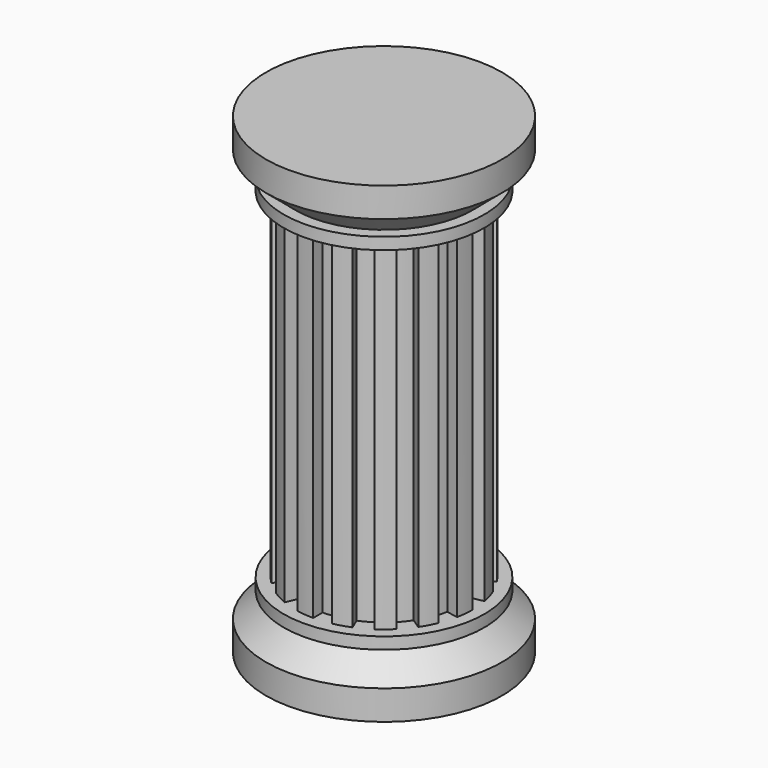
from build123d import *

# Parameters (mm, degrees)
F3_DEPTH = 36.581717


with BuildPart() as f1:
    # F0 (on Right) → F1 (revolve)
    with BuildSketch(Plane.YZ):
        Polygon((-12.7, 0), (0, 0), (0, 50.8), (-12.7, 50.8), (-12.7, 47.625), (-9.525, 44.960859), (-10.795, 44.960859), (-10.795, 43.690859), (-9.525, 43.690859), (-9.525, 7.109141), (-10.795, 7.109141), (-10.795, 5.839141), (-9.525, 5.839141), (-12.7, 3.175), align=None)
    revolve(axis=Axis((0, 0, 25.4), (0, 0, -1)))

    # F2 (on face) → F3 (cut, through all)
    with BuildSketch(Plane.XY.offset(7.109141)):
        with BuildLine():
            Line((3.159052, -7.626626), (3.64506, -8.799953))
            ThreePointArc((3.64506, -8.799953), (4.490054, -8.4003), (5.291806, -7.919748))
            Line((5.291806, -7.919748), (4.586232, -6.863782))
            ThreePointArc((4.586232, -6.863782), (3.89138, -7.28026), (3.159052, -7.626626))
        make_face()
        with BuildLine():
            Line((0, -8.255), (0, -9.525))
            ThreePointArc((0, -9.525), (0.933613, -9.479135), (1.858235, -9.34198))
            Line((1.858235, -9.34198), (1.610471, -8.096382))
            ThreePointArc((1.610471, -8.096382), (0.809131, -8.21525), (0, -8.255))
        make_face()
        with BuildLine():
            ThreePointArc((6.863782, -4.586232), (6.381201, -5.236917), (5.837166, -5.837166))
            Line((5.837166, -5.837166), (6.735192, -6.735192))
            ThreePointArc((6.735192, -6.735192), (7.362925, -6.042596), (7.919748, -5.291806))
            Line((7.919748, -5.291806), (6.863782, -4.586232))
        make_face()
        with BuildLine():
            ThreePointArc((8.096382, -1.610471), (7.899542, -2.3963), (7.626626, -3.159052))
            Line((7.626626, -3.159052), (8.799953, -3.64506))
            ThreePointArc((8.799953, -3.64506), (9.114857, -2.764962), (9.34198, -1.858235))
            Line((9.34198, -1.858235), (8.096382, -1.610471))
        make_face()
        with BuildLine():
            Line((-7.626626, -3.159052), (-8.799953, -3.64506))
            ThreePointArc((-8.799953, -3.64506), (-8.4003, -4.490054), (-7.919748, -5.291806))
            Line((-7.919748, -5.291806), (-6.863782, -4.586232))
            ThreePointArc((-6.863782, -4.586232), (-7.28026, -3.89138), (-7.626626, -3.159052))
        make_face()
        with BuildLine():
            Line((-8.255, 0), (-9.525, 0))
            ThreePointArc((-9.525, 0), (-9.479135, -0.933613), (-9.34198, -1.858235))
            Line((-9.34198, -1.858235), (-8.096382, -1.610471))
            ThreePointArc((-8.096382, -1.610471), (-8.21525, -0.809131), (-8.255, 0))
        make_face()
        with BuildLine():
            Line((-5.291806, -7.919748), (-4.586232, -6.863782))
            ThreePointArc((-4.586232, -6.863782), (-5.236917, -6.381201), (-5.837166, -5.837166))
            Line((-5.837166, -5.837166), (-6.735192, -6.735192))
            ThreePointArc((-6.735192, -6.735192), (-6.042596, -7.362925), (-5.291806, -7.919748))
        make_face()
        with BuildLine():
            Line((-3.159052, -7.626626), (-3.64506, -8.799953))
            ThreePointArc((-3.64506, -8.799953), (-2.764962, -9.114857), (-1.858235, -9.34198))
            Line((-1.858235, -9.34198), (-1.610471, -8.096382))
            ThreePointArc((-1.610471, -8.096382), (-2.3963, -7.899542), (-3.159052, -7.626626))
        make_face()
        with BuildLine():
            Line((-3.159052, 7.626626), (-3.64506, 8.799953))
            ThreePointArc((-3.64506, 8.799953), (-4.490054, 8.4003), (-5.291806, 7.919748))
            Line((-5.291806, 7.919748), (-4.586232, 6.863782))
            ThreePointArc((-4.586232, 6.863782), (-3.89138, 7.28026), (-3.159052, 7.626626))
        make_face()
        with BuildLine():
            Line((0, 8.255), (0, 9.525))
            ThreePointArc((0, 9.525), (-0.933613, 9.479135), (-1.858235, 9.34198))
            Line((-1.858235, 9.34198), (-1.610471, 8.096382))
            ThreePointArc((-1.610471, 8.096382), (-0.809131, 8.21525), (0, 8.255))
        make_face()
        with BuildLine():
            Line((-7.919748, 5.291806), (-6.863782, 4.586232))
            ThreePointArc((-6.863782, 4.586232), (-6.381201, 5.236917), (-5.837166, 5.837166))
            Line((-5.837166, 5.837166), (-6.735192, 6.735192))
            ThreePointArc((-6.735192, 6.735192), (-7.362925, 6.042596), (-7.919748, 5.291806))
        make_face()
        with BuildLine():
            Line((-7.626626, 3.159052), (-8.799953, 3.64506))
            ThreePointArc((-8.799953, 3.64506), (-9.114857, 2.764962), (-9.34198, 1.858235))
            Line((-9.34198, 1.858235), (-8.096382, 1.610471))
            ThreePointArc((-8.096382, 1.610471), (-7.899542, 2.3963), (-7.626626, 3.159052))
        make_face()
        with BuildLine():
            Line((7.626626, 3.159052), (8.799953, 3.64506))
            ThreePointArc((8.799953, 3.64506), (8.4003, 4.490054), (7.919748, 5.291806))
            Line((7.919748, 5.291806), (6.863782, 4.586232))
            ThreePointArc((6.863782, 4.586232), (7.28026, 3.89138), (7.626626, 3.159052))
        make_face()
        with BuildLine():
            Line((8.255, 0), (9.525, 0))
            ThreePointArc((9.525, 0), (9.479135, 0.933613), (9.34198, 1.858235))
            Line((9.34198, 1.858235), (8.096382, 1.610471))
            ThreePointArc((8.096382, 1.610471), (8.21525, 0.809131), (8.255, 0))
        make_face()
        with BuildLine():
            Line((5.291806, 7.919748), (4.586232, 6.863782))
            ThreePointArc((4.586232, 6.863782), (5.236917, 6.381201), (5.837166, 5.837166))
            Line((5.837166, 5.837166), (6.735192, 6.735192))
            ThreePointArc((6.735192, 6.735192), (6.042596, 7.362925), (5.291806, 7.919748))
        make_face()
        with BuildLine():
            Line((3.159052, 7.626626), (3.64506, 8.799953))
            ThreePointArc((3.64506, 8.799953), (2.764962, 9.114857), (1.858235, 9.34198))
            Line((1.858235, 9.34198), (1.610471, 8.096382))
            ThreePointArc((1.610471, 8.096382), (2.3963, 7.899542), (3.159052, 7.626626))
        make_face()
    extrude(amount=F3_DEPTH, mode=Mode.SUBTRACT)


solid = f1.part
